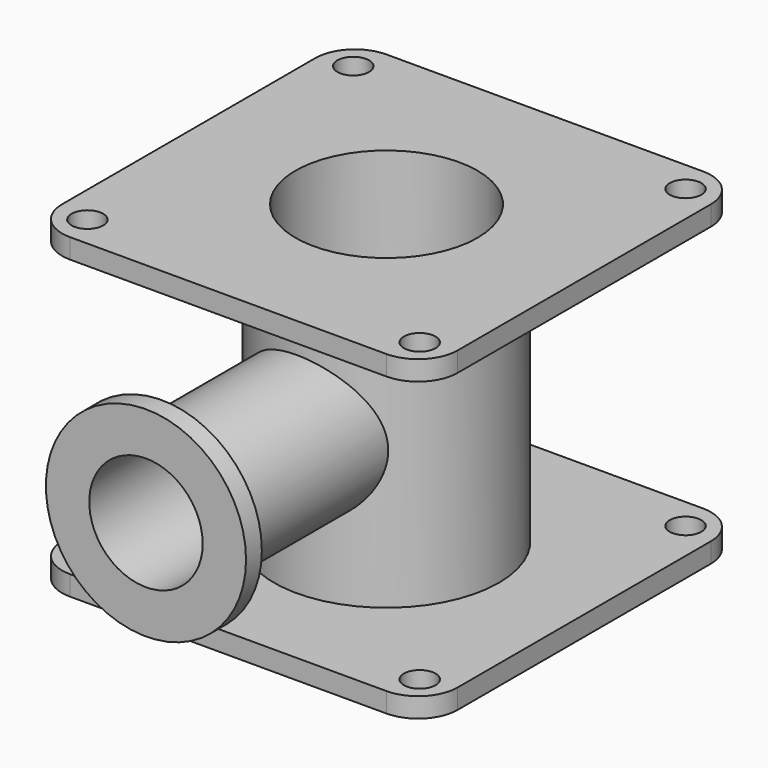
from build123d import *

# Parameters (mm, degrees)
F0_R      = 36.0888023615
F0_R_2    = 29.21
F1_DEPTH  = 50.8
F2_R      = 36.0888023615
F3_DEPTH  = 6.35
F6_R      = 22.8868793225
F6_R_2    = 18.2059808832
F7_DEPTH  = 96.52
F8_DEPTH  = 76.2
F10_D     = 58.42
F10_DEPTH = 101.6
F10_TIP   = 17.5511386818
F11_R     = 32.1245501008
F11_R_2   = 22.8868793225
F11_R_3   = 18.2059808832
F12_DEPTH = 6.35
F14_D     = 10.16
F15_R     = 12.7


with BuildPart() as f1:
    # F0 (on Top) → F1 (new body)
    with BuildSketch(Plane.XY):
        Circle(F0_R)
        Circle(F0_R_2, mode=Mode.SUBTRACT)
    extrude(amount=F1_DEPTH)


with BuildPart() as f3:
    # F2 (on face) → F3 (new body)
    with BuildSketch(Plane.XY.offset(50.8)):
        Polygon((63.5, 63.5), (0, 63.5), (-63.5, 63.5), (-63.5, 0), (-63.5, -63.5), (0, -63.5), (63.5, -63.5), (63.5, 0), align=None)
        Circle(F2_R, mode=Mode.SUBTRACT)
    extrude(amount=-F3_DEPTH)

    # F4: union F1
    add(f1.part)

    # F5: F3 across plane


with BuildPart() as f3_1:
    add(f3.part)
    add(f3.part.mirror(Plane.XY))

    # F6 (on Front) → F7 (join)
    with BuildSketch(Plane.XZ):
        Circle(F6_R)
        Circle(F6_R_2, mode=Mode.SUBTRACT)
    extrude(amount=F7_DEPTH)

    # F6 (on Front) → F8 (cut)
    with BuildSketch(Plane.XZ):
        Circle(F6_R_2)
    extrude(amount=F8_DEPTH, mode=Mode.SUBTRACT)

    # F10
    with Locations(Plane.XY.offset(50.8)):
        with Locations((0, 0)):
            Hole(F10_D / 2, depth=F10_DEPTH)
            with Locations((0, 0, -(F10_DEPTH + F10_TIP / 2))):  # 118° drill point
                Cone(0, F10_D / 2, F10_TIP, mode=Mode.SUBTRACT)

    # F11 (on face) → F12 (join)
    with BuildSketch(Plane.XZ.offset(96.52)):
        Circle(F11_R)
        Circle(F11_R_2, mode=Mode.SUBTRACT)
        Circle(F11_R_2)
        Circle(F11_R_3, mode=Mode.SUBTRACT)
    extrude(amount=-F12_DEPTH)

    # F14 (through all)
    with Locations(Plane.XY.offset(50.8)):
        with Locations((53.34, 53.34), (53.34, -53.34), (-53.34, -53.34), (-53.34, 53.34)):
            Hole(F14_D / 2)

    # F15
    f15_edges = [f3_1.edges().sort_by_distance(p)[0] for p in [
        (-63.5, 63.5, -47.625),
        (-63.5, 63.5, 47.625),
        (-63.5, -63.5, -47.625),
        (-63.5, -63.5, 47.625),
        (63.5, -63.5, 47.625),
        (63.5, -63.5, -47.625),
        (63.5, 63.5, 47.625),
        (63.5, 63.5, -47.625),
    ]]
    fillet(f15_edges, radius=F15_R)


solid = f3_1.part
